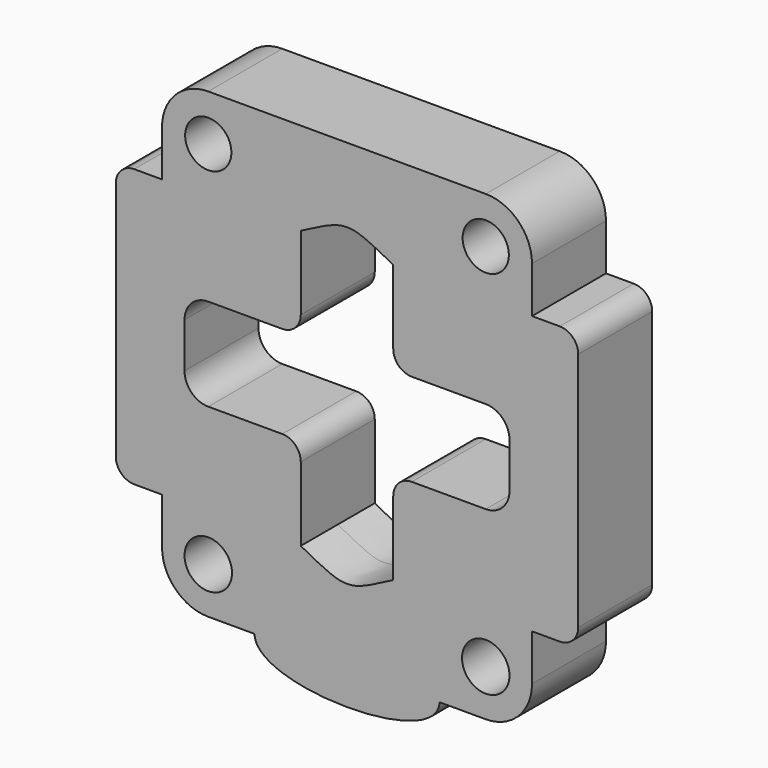
from build123d import *

# Parameters (mm, degrees)
F0_R     = 6.516226
F0_R_2   = 6.35
F1_DEPTH = 12.7
F2_R     = 5.08


with BuildPart() as f1:
    # F0 (on Front) → F1 (new body, symmetric)
    with BuildSketch(Plane.XZ):
        with BuildLine():
            Line((0, 63.5), (-38.1, 63.5))
            ThreePointArc((-38.1, 63.5), (-47.080256, 59.780256), (-50.8, 50.8))
            Line((-50.8, 50.8), (-50.8, 38.1))
            Line((-50.8, 38.1), (-63.5, 38.1))
            Line((-63.5, 38.1), (-63.5, -38.1))
            Line((-63.5, -38.1), (-50.8, -38.1))
            Line((-50.8, -38.1), (-50.8, -50.8))
            ThreePointArc((-50.8, -50.8), (-47.080256, -59.780256), (-38.1, -63.5))
            Line((-38.1, -63.5), (-25.4, -63.5))
            add(Edge.make_bspline(
                [(-25.4, -63.5), (-25.130395, -75.962335), (25.130399, -76.247901), (25.4, -63.5)],
                knots=[0, 0, 0, 0, 50.8, 50.8, 50.8, 50.8], degree=3))
            Line((25.4, -63.5), (38.1, -63.5))
            ThreePointArc((38.1, -63.5), (47.080256, -59.780256), (50.8, -50.8))
            Line((50.8, -50.8), (50.8, -38.1))
            Line((50.8, -38.1), (63.5, -38.1))
            Line((63.5, -38.1), (63.5, 38.1))
            Line((63.5, 38.1), (50.8, 38.1))
            Line((50.8, 38.1), (50.8, 50.8))
            ThreePointArc((50.8, 50.8), (47.080256, 59.780256), (38.1, 63.5))
            Line((38.1, 63.5), (0, 63.5))
        make_face()
        with Locations((-38.1, -50.8)):
            Circle(F0_R, mode=Mode.SUBTRACT)
        with Locations((38.1, -50.8)):
            Circle(F0_R, mode=Mode.SUBTRACT)
        with Locations((-38.1, 50.8)):
            Circle(F0_R_2, mode=Mode.SUBTRACT)
        with BuildLine():
            Line((-12.7, 12.7), (-12.7, 38.1))
            add(Edge.make_bspline(
                [(-12.7, 38.1), (0, 44.738483), (0, 44.738483), (12.7, 38.1)],
                knots=[0, 0, 0, 0, 25.4, 25.4, 25.4, 25.4], degree=3))
            Line((12.7, 38.1), (12.7, 12.7))
            Line((12.7, 12.7), (38.1, 12.7))
            ThreePointArc((38.1, 12.7), (42.707668, 10.791442), (44.616226, 6.183774))
            Line((44.616226, 6.183774), (44.616226, -6.183774))
            ThreePointArc((44.616226, -6.183774), (42.707668, -10.791442), (38.1, -12.7))
            Line((38.1, -12.7), (12.7, -12.7))
            Line((12.7, -12.7), (12.7, -38.1))
            add(Edge.make_bspline(
                [(12.7, -38.1), (0, -44.836216), (0, -44.836216), (-12.7, -38.1)],
                knots=[0, 0, 0, 0, 25.4, 25.4, 25.4, 25.4], degree=3))
            Line((-12.7, -38.1), (-12.7, -12.7))
            Line((-12.7, -12.7), (-38.1, -12.7))
            ThreePointArc((-38.1, -12.7), (-42.707668, -10.791442), (-44.616226, -6.183774))
            Line((-44.616226, -6.183774), (-44.616226, 6.183774))
            ThreePointArc((-44.616226, 6.183774), (-42.707668, 10.791442), (-38.1, 12.7))
            Line((-38.1, 12.7), (-12.7, 12.7))
        make_face(mode=Mode.SUBTRACT)
        with Locations((38.1, 50.8)):
            Circle(F0_R_2, mode=Mode.SUBTRACT)
    extrude(amount=F1_DEPTH, both=True)

    # F2
    f2_edges = [f1.edges().sort_by_distance(p)[0] for p in [
        (12.7, 0, 12.7),
        (-12.7, 0, 12.7),
        (12.7, 0, -12.7),
        (-12.7, 0, -12.7),
        (-63.5, 0, 38.1),
        (-63.5, 0, -38.1),
        (63.5, 0, -38.1),
        (63.5, 0, 38.1),
    ]]
    fillet(f2_edges, radius=F2_R)


solid = f1.part
